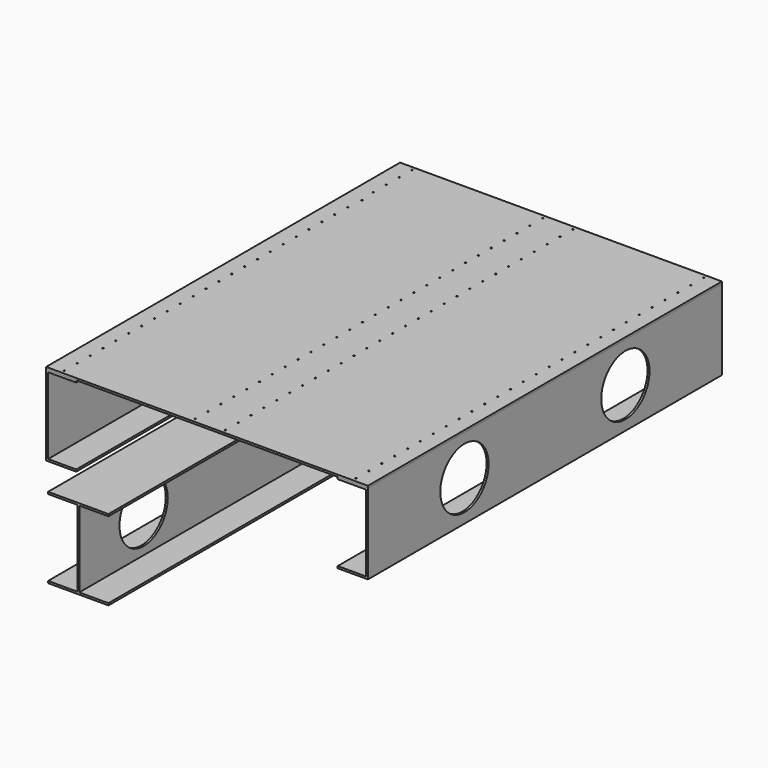
from build123d import *

# Parameters (mm, degrees)
F1_DEPTH  = 1100
F3_DEPTH  = 1100
F5_DEPTH  = 1500
F6_W      = 799.952187
F6_H      = 5
F7_DEPTH  = 1100
F8_R      = 75
F9_DEPTH  = 5
F10_R     = 75
F11_DEPTH = 5
F12_R     = 75
F13_DEPTH = 5
F14_R     = 75
F15_DEPTH = 5
F16_R     = 1.6
F17_DEPTH = 50


with BuildPart() as f1:
    # F0 (on Front) → F1 (new body)
    with BuildSketch(Plane.XZ):
        Polygon((255.44247, 90.06249), (180.44247, 90.06249), (180.44247, 85.06249), (250.44247, 85.06249), (250.44247, -104.93751), (180.44247, -104.93751), (180.44247, -109.93751), (255.44247, -109.93751), align=None)
    extrude(amount=F1_DEPTH)

    # F8 (on face) → F9 (cut)
    with BuildSketch(Plane.YZ.offset(255.44247)):
        with Locations((-300, -9.93751)):
            Circle(F8_R)
    extrude(amount=-F9_DEPTH, mode=Mode.SUBTRACT)

    # F10 (on face) → F11 (cut)
    with BuildSketch(Plane.YZ.offset(255.44247)):
        with Locations((-800, -9.93751)):
            Circle(F10_R)
    extrude(amount=-F11_DEPTH, mode=Mode.SUBTRACT)


with BuildPart() as f3:
    # F2 (on Front) → F3 (new body)
    with BuildSketch(Plane.XZ):
        Polygon((-469.509717, 85.06249), (-469.509717, 90.06249), (-544.509717, 90.06249), (-544.509717, -109.93751), (-469.509717, -109.93751), (-469.477563, -104.937613), (-539.509717, -104.937613), (-539.509717, 85.06249), align=None)
    extrude(amount=F3_DEPTH)

    # F12 (on face) → F13 (cut)
    with BuildSketch(Plane(origin=(-544.509717, 0, 0), x_dir=(0, -1, 0), z_dir=(-1, 0, 0))):
        with Locations((300, -9.93751)):
            Circle(F12_R)
        with Locations((800, -9.93751)):
            Circle(F12_R)
    extrude(amount=-F13_DEPTH, mode=Mode.SUBTRACT)


with BuildPart() as f5:
    # F4 (on Front) → F5 (new body)
    with BuildSketch(Plane.XZ):
        Polygon((-69.509717, 90.06249), (-219.509717, 90.06249), (-219.509717, 85.06249), (-147.009717, 85.06249), (-147.009717, -104.93751), (-219.509717, -104.93751), (-219.509717, -109.93751), (-69.509717, -109.93751), (-69.509717, -104.93751), (-142.009717, -104.93751), (-142.009717, 85.06249), (-69.509717, 85.06249), align=None)
    extrude(amount=F5_DEPTH)

    # F14 (on face) → F15 (cut)
    with BuildSketch(Plane.YZ.offset(-142.009717)):
        with Locations((-1300, -9.93751)):
            Circle(F14_R)
        with Locations((-800, -9.93751)):
            Circle(F14_R)
        with Locations((-300, -9.93751)):
            Circle(F14_R)
    extrude(amount=-F15_DEPTH, mode=Mode.SUBTRACT)


with BuildPart() as f7:
    # F6 (on Front) → F7 (new body)
    with BuildSketch(Plane.XZ):
        with Locations((-144.533624, 92.56249)):
            Rectangle(F6_W, F6_H)
    extrude(amount=F7_DEPTH)


with BuildPart() as f17_tool:
    # F16 (on face) → F17 (new body)
    with BuildSketch(Plane.XY.offset(95.06249)):
        with Locations((-507.009717, -1090)):
            Circle(F16_R)
        with Locations((-507.009717, -1050)):
            Circle(F16_R)
        with Locations((-507.009717, -1010)):
            Circle(F16_R)
        with Locations((-507.009717, -970)):
            Circle(F16_R)
        with Locations((-507.009717, -930)):
            Circle(F16_R)
        with Locations((-507.009717, -890)):
            Circle(F16_R)
        with Locations((-507.009717, -850)):
            Circle(F16_R)
        with Locations((-507.009717, -810)):
            Circle(F16_R)
        with Locations((-507.009717, -770)):
            Circle(F16_R)
        with Locations((-507.009717, -730)):
            Circle(F16_R)
        with Locations((-507.009717, -690)):
            Circle(F16_R)
        with Locations((-507.009717, -650)):
            Circle(F16_R)
        with Locations((-507.009717, -610)):
            Circle(F16_R)
        with Locations((-507.009717, -570)):
            Circle(F16_R)
        with Locations((-507.009717, -530)):
            Circle(F16_R)
        with Locations((-507.009717, -490)):
            Circle(F16_R)
        with Locations((-507.009717, -450)):
            Circle(F16_R)
        with Locations((-507.009717, -410)):
            Circle(F16_R)
        with Locations((-507.009717, -290)):
            Circle(F16_R)
        with Locations((-507.009717, -330)):
            Circle(F16_R)
        with Locations((-507.009717, -370)):
            Circle(F16_R)
        with Locations((-507.009717, -250)):
            Circle(F16_R)
        with Locations((-507.009717, -210)):
            Circle(F16_R)
        with Locations((-507.009717, -130)):
            Circle(F16_R)
        with Locations((-503.097355, -170)):
            Circle(F16_R)
        with Locations((-507.009717, -90)):
            Circle(F16_R)
        with Locations((-507.009717, -50)):
            Circle(F16_R)
        with Locations((-507.009717, -10)):
            Circle(F16_R)
        with Locations((-182.009717, -1090)):
            Circle(F16_R)
        with Locations((-182.009717, -1050)):
            Circle(F16_R)
        with Locations((-182.009717, -1010)):
            Circle(F16_R)
        with Locations((-182.009717, -970)):
            Circle(F16_R)
        with Locations((-182.009717, -930)):
            Circle(F16_R)
        with Locations((-182.009717, -890)):
            Circle(F16_R)
        with Locations((-182.009717, -850)):
            Circle(F16_R)
        with Locations((-182.009717, -810)):
            Circle(F16_R)
        with Locations((-182.009717, -770)):
            Circle(F16_R)
        with Locations((-182.009717, -730)):
            Circle(F16_R)
        with Locations((-182.009717, -690)):
            Circle(F16_R)
        with Locations((-182.009717, -650)):
            Circle(F16_R)
        with Locations((-182.009717, -610)):
            Circle(F16_R)
        with Locations((-182.009717, -570)):
            Circle(F16_R)
        with Locations((-182.009717, -530)):
            Circle(F16_R)
        with Locations((-182.009717, -490)):
            Circle(F16_R)
        with Locations((-182.009717, -450)):
            Circle(F16_R)
        with Locations((-182.009717, -410)):
            Circle(F16_R)
        with Locations((-182.009717, -290)):
            Circle(F16_R)
        with Locations((-182.009717, -330)):
            Circle(F16_R)
        with Locations((-182.009717, -370)):
            Circle(F16_R)
        with Locations((-182.009717, -250)):
            Circle(F16_R)
        with Locations((-182.009717, -210)):
            Circle(F16_R)
        with Locations((-182.009717, -130)):
            Circle(F16_R)
        with Locations((-182.009717, -170)):
            Circle(F16_R)
        with Locations((-182.009717, -90)):
            Circle(F16_R)
        with Locations((-182.009717, -50)):
            Circle(F16_R)
        with Locations((-182.009717, -10)):
            Circle(F16_R)
        with Locations((-107.009717, -1090)):
            Circle(F16_R)
        with Locations((-107.009717, -1050)):
            Circle(F16_R)
        with Locations((-107.009717, -1010)):
            Circle(F16_R)
        with Locations((-107.009717, -970)):
            Circle(F16_R)
        with Locations((-107.009717, -930)):
            Circle(F16_R)
        with Locations((-107.009717, -890)):
            Circle(F16_R)
        with Locations((-107.009717, -850)):
            Circle(F16_R)
        with Locations((-107.009717, -810)):
            Circle(F16_R)
        with Locations((-107.009717, -770)):
            Circle(F16_R)
        with Locations((-107.009717, -730)):
            Circle(F16_R)
        with Locations((-107.009717, -690)):
            Circle(F16_R)
        with Locations((-107.009717, -650)):
            Circle(F16_R)
        with Locations((-107.009717, -610)):
            Circle(F16_R)
        with Locations((-107.009717, -570)):
            Circle(F16_R)
        with Locations((-107.009717, -530)):
            Circle(F16_R)
        with Locations((-107.009717, -490)):
            Circle(F16_R)
        with Locations((-107.009717, -450)):
            Circle(F16_R)
        with Locations((-107.009717, -410)):
            Circle(F16_R)
        with Locations((-107.009717, -290)):
            Circle(F16_R)
        with Locations((-107.009717, -330)):
            Circle(F16_R)
        with Locations((-107.009717, -370)):
            Circle(F16_R)
        with Locations((-107.009717, -250)):
            Circle(F16_R)
        with Locations((-107.009717, -210)):
            Circle(F16_R)
        with Locations((-107.009717, -130)):
            Circle(F16_R)
        with Locations((-107.009717, -170)):
            Circle(F16_R)
        with Locations((-107.009717, -90)):
            Circle(F16_R)
        with Locations((-107.009717, -50)):
            Circle(F16_R)
        with Locations((-107.009717, -10)):
            Circle(F16_R)
        with Locations((217.990283, -1090)):
            Circle(F16_R)
        with Locations((217.990283, -1050)):
            Circle(F16_R)
        with Locations((217.990283, -1010)):
            Circle(F16_R)
        with Locations((217.990283, -970)):
            Circle(F16_R)
        with Locations((217.990283, -930)):
            Circle(F16_R)
        with Locations((217.990283, -890)):
            Circle(F16_R)
        with Locations((217.990283, -850)):
            Circle(F16_R)
        with Locations((217.990283, -810)):
            Circle(F16_R)
        with Locations((217.990283, -770)):
            Circle(F16_R)
        with Locations((217.990283, -730)):
            Circle(F16_R)
        with Locations((217.990283, -690)):
            Circle(F16_R)
        with Locations((217.990283, -650)):
            Circle(F16_R)
        with Locations((217.990283, -610)):
            Circle(F16_R)
        with Locations((217.990283, -570)):
            Circle(F16_R)
        with Locations((217.990283, -530)):
            Circle(F16_R)
        with Locations((217.990283, -490)):
            Circle(F16_R)
        with Locations((217.990283, -450)):
            Circle(F16_R)
        with Locations((217.990283, -410)):
            Circle(F16_R)
        with Locations((217.990283, -290)):
            Circle(F16_R)
        with Locations((217.990283, -330)):
            Circle(F16_R)
        with Locations((217.990283, -370)):
            Circle(F16_R)
        with Locations((217.990283, -250)):
            Circle(F16_R)
        with Locations((217.990283, -210)):
            Circle(F16_R)
        with Locations((217.990283, -130)):
            Circle(F16_R)
        with Locations((217.990283, -170)):
            Circle(F16_R)
        with Locations((217.990283, -90)):
            Circle(F16_R)
        with Locations((217.990283, -50)):
            Circle(F16_R)
        with Locations((217.990283, -10)):
            Circle(F16_R)
    extrude(amount=-F17_DEPTH)


with BuildPart() as f1_1:
    add(f1.part)

    # F17: cut by f17_tool
    add(f17_tool.part, mode=Mode.SUBTRACT)


with BuildPart() as f3_1:
    add(f3.part)

    # F17: cut by f17_tool
    add(f17_tool.part, mode=Mode.SUBTRACT)


with BuildPart() as f5_1:
    add(f5.part)

    # F17: cut by f17_tool
    add(f17_tool.part, mode=Mode.SUBTRACT)


with BuildPart() as f7_1:
    add(f7.part)

    # F17: cut by f17_tool
    add(f17_tool.part, mode=Mode.SUBTRACT)


solid = Compound([f1_1.part, f3_1.part, f5_1.part, f7_1.part])
